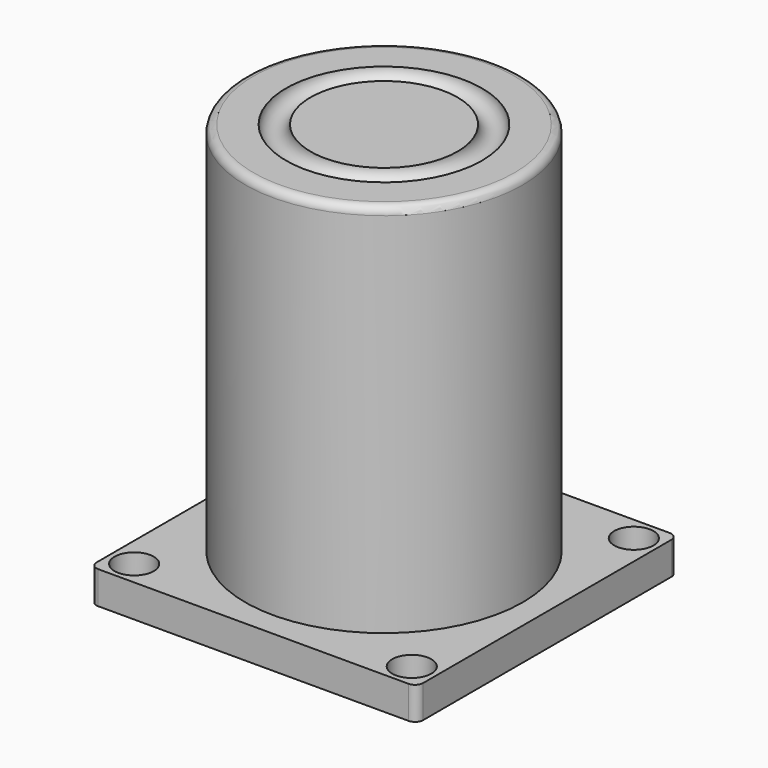
from build123d import *

# Parameters (mm, degrees)
CYLINDER001_R     = 2.4
CYLINDER001_DEPTH = 10
ARRAY_X_COUNT     = 2
ARRAY_X_PITCH     = 34
ARRAY_Y_COUNT     = 2
ARRAY_Y_PITCH     = 34
TORUS_R           = 1.5
BOX_W             = 40
BOX_H             = 40
BOX_DEPTH         = 4
CYLINDER_R        = 17
CYLINDER_DEPTH    = 50
FILLET_R          = 1


with BuildPart() as taladros:
    # Cylinder001 → Cylinder001 (new body)
    with BuildSketch(Plane(origin=(3, 3, -1), x_dir=(1, 0, 0), z_dir=(0, 0, 1))):
        Circle(CYLINDER001_R)
    extrude(amount=CYLINDER001_DEPTH)

    # Array X: Taladros ×2


with BuildPart() as taladros_1:
    add(taladros.part)
    with Locations(*[(i * ARRAY_X_PITCH, 0, 0) for i in range(1, ARRAY_X_COUNT)]):
        add(taladros.part)

    # Array Y: Taladros ×2


with BuildPart() as taladros_2:
    add(taladros_1.part)
    with Locations(*[(0, i * ARRAY_Y_PITCH, 0) for i in range(1, ARRAY_Y_COUNT)]):
        add(taladros_1.part)


with BuildPart() as obj1:
    # Torus → Torus (revolve)
    with BuildSketch(Plane(origin=(20, 20, 50), x_dir=(1, 0, 0), z_dir=(0, -1, 0))):
        with Locations((10.5, 0)):
            Circle(TORUS_R)
    revolve(axis=Axis((20, 20, 50), (0, 0, 1)))


with BuildPart() as base:
    # Box → Box (new body)
    with BuildSketch(Plane.XY):
        with Locations((20, 20)):
            Rectangle(BOX_W, BOX_H)
    extrude(amount=BOX_DEPTH)


with BuildPart() as obj2:
    # Cylinder → Cylinder (new body)
    with BuildSketch(Plane(origin=(20, 20, 0), x_dir=(1, 0, 0), z_dir=(0, 0, 1))):
        Circle(CYLINDER_R)
    extrude(amount=CYLINDER_DEPTH)

    # Fusion: union Base
    add(base.part)

    # Cut: cut obj1
    add(obj1.part, mode=Mode.SUBTRACT)

    # Cut001: cut Taladros
    add(taladros_2.part, mode=Mode.SUBTRACT)

    # Fillet
    fillet_edges = [obj2.edges().sort_by_distance(p)[0] for p in [
        (3, 20, 50),
        (0, 0, 2),
        (0, 40, 2),
        (40, 40, 2),
        (40, 0, 2),
    ]]
    fillet(fillet_edges, radius=FILLET_R)


solid = obj2.part
